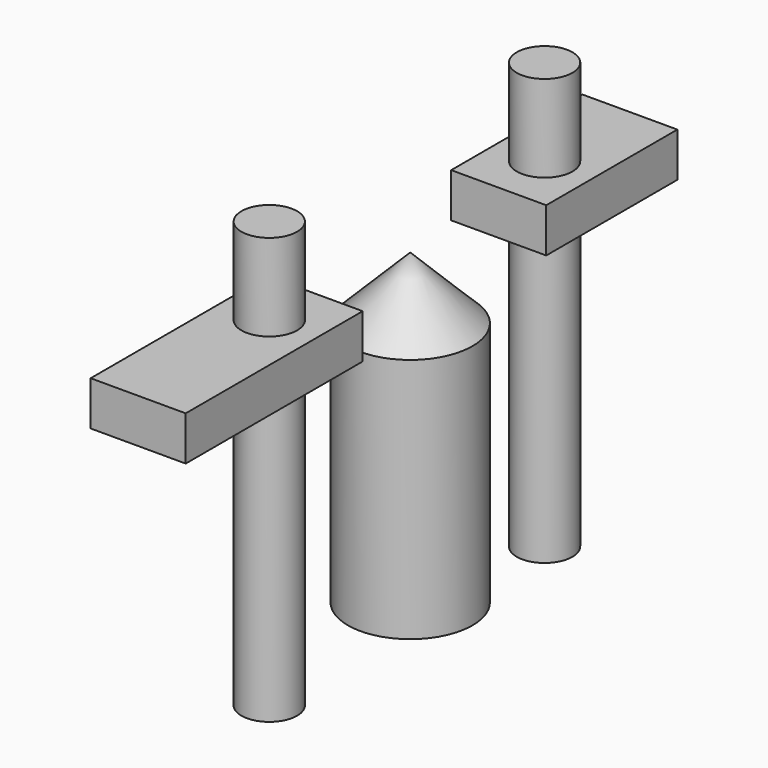
from build123d import *

# Parameters (mm, degrees)
CYLINDER126_R                = 1.7
CYLINDER126_DEPTH            = 26
BOX001027045015_W            = 10
BOX001027045015_H            = 5.8
BOX001027045015_DEPTH        = 2.7
BOX001027045016_W            = 13.5
BOX001027045016_H            = 5.8
BOX001027045016_DEPTH        = 2.7
CYLINDER125_R                = 1.7
CYLINDER125_DEPTH            = 26
CYLINDER127_R                = 3.8
CYLINDER127_DEPTH            = 15
FUSION112033_PLACEMENT_ANGLE = 90


with BuildPart() as cylinder184:
    # Cylinder126 → Cylinder126 (new body)
    with BuildSketch(Plane(origin=(13, 0, -18), x_dir=(1, 0, 0), z_dir=(0, 0, 1))):
        Circle(CYLINDER126_R)
    extrude(amount=CYLINDER126_DEPTH)


with BuildPart() as fusion112031:
    # Box001027045015 → Box001027045015 (new body)
    with BuildSketch(Plane(origin=(9.5, -2.9, 0), x_dir=(1, 0, 0), z_dir=(0, 0, 1))):
        with Locations((5, 2.9)):
            Rectangle(BOX001027045015_W, BOX001027045015_H)
    extrude(amount=BOX001027045015_DEPTH)

    # Fusion112031: union Cylinder184
    add(cylinder184.part)


with BuildPart() as cube069:
    # Box001027045016 → Box001027045016 (new body)
    with BuildSketch(Plane(origin=(-18, -2.9, 0), x_dir=(1, 0, 0), z_dir=(0, 0, 1))):
        with Locations((6.75, 2.9)):
            Rectangle(BOX001027045016_W, BOX001027045016_H)
    extrude(amount=BOX001027045016_DEPTH)


with BuildPart() as m3_nut_holes001:
    # Cylinder125 → Cylinder125 (new body)
    with BuildSketch(Plane(origin=(-8, 0, -18), x_dir=(1, 0, 0), z_dir=(0, 0, 1))):
        Circle(CYLINDER125_R)
    extrude(amount=CYLINDER125_DEPTH)

    # Fusion112030: union Cube069
    add(cube069.part)

    # Fusion112032: union Fusion112031
    add(fusion112031.part)


with BuildPart() as cone004:
    # Cone004 → Cone004 (revolve)
    with BuildSketch(Plane(origin=(9, 5, -3), x_dir=(1, 0, 0), z_dir=(0, -1, 0))):
        Polygon((0, 0), (3.8, 0), (0, 3.8), align=None)
    revolve(axis=Axis((9, 5, -3), (0, 0, 1)))


with BuildPart() as base_holes001:
    # Cylinder127 → Cylinder127 (new body)
    with BuildSketch(Plane(origin=(9, 5, -18), x_dir=(1, 0, 0), z_dir=(0, 0, 1))):
        Circle(CYLINDER127_R)
    extrude(amount=CYLINDER127_DEPTH)

    # Fusion112029: union Cone004
    add(cone004.part)


with BuildPart() as base_holes001_1:
    # Fusion112029 placement: moved
    add(base_holes001.part.moved(Location((0, 0, -3))))

    # Fusion112033: union m3-nut-holes001
    add(m3_nut_holes001.part)


with BuildPart() as base_holes001_2:
    # Fusion112033 placement: moved
    add(base_holes001_1.part.rotate(Axis((0, 0, 0), (0, 0, 1)), FUSION112033_PLACEMENT_ANGLE))


solid = base_holes001_2.part
